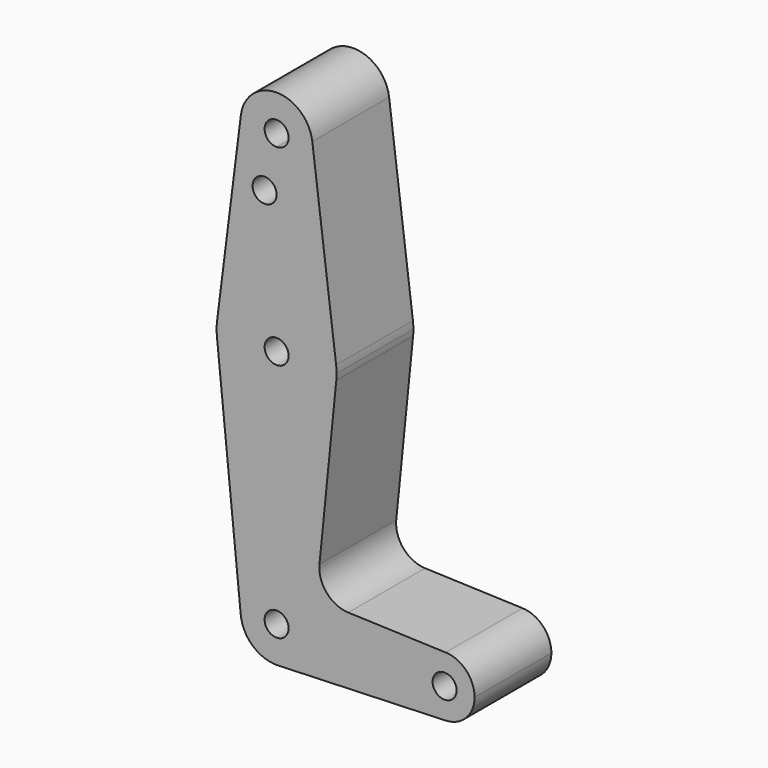
from build123d import *

# Parameters (mm, degrees)
F0_R     = 3.175
F1_DEPTH = 25.4


with BuildPart() as f1:
    # F0 (on Front) → F1 (new body)
    with BuildSketch(Plane.XZ):
        with BuildLine():
            ThreePointArc((3.175, 114.3), (-2.245064, 116.545064), (0, 111.125))
            ThreePointArc((0, 111.125), (2.245064, 112.054936), (3.175, 114.3))
        make_face()
        with BuildLine():
            ThreePointArc((0, 104.775), (6.735192, 107.564808), (9.525, 114.3))
            ThreePointArc((9.525, 114.3), (9.506305, 114.896483), (9.450293, 115.490625))
            ThreePointArc((9.450293, 115.490625), (0, 123.825), (-9.450293, 115.490625))
            ThreePointArc((-9.450293, 115.490625), (-7.14375, 107.999805), (0, 104.775))
        make_face()
        with BuildLine():
            ThreePointArc((3.175, 114.3), (2.245064, 112.054936), (0, 111.125))
            ThreePointArc((0, 111.125), (-2.245064, 116.545064), (3.175, 114.3))
        make_face(mode=Mode.SUBTRACT)
        with BuildLine():
            ThreePointArc((9.450293, 115.490625), (9.506305, 114.896483), (9.525, 114.3))
            ThreePointArc((9.525, 114.3), (6.735192, 107.564808), (0, 104.775))
            Line((0, 104.775), (0, 100.0252))
            Line((0, 100.0252), (0, 79.375))
            ThreePointArc((0, 79.375), (10.500326, 75.40625), (15.750488, 65.484375))
            Line((15.750488, 65.484375), (9.450293, 115.490625))
        make_face()
        with BuildLine():
            Line((0, 100.0252), (0, 104.775))
            ThreePointArc((0, 104.775), (-7.14375, 107.999805), (-9.450293, 115.490625))
            Line((-9.450293, 115.490625), (-15.750488, 65.484375))
            ThreePointArc((-15.750488, 65.484375), (-10.500326, 75.40625), (0, 79.375))
            Line((0, 79.375), (0, 100.0252))
        make_face()
        with Locations((-3.175, 100.0252)):
            Circle(F0_R, mode=Mode.SUBTRACT)
        with BuildLine():
            ThreePointArc((3.175, 63.5), (2.245064, 65.745064), (0, 66.675))
            ThreePointArc((0, 66.675), (-2.245064, 61.254936), (3.175, 63.5))
        make_face()
        with BuildLine():
            ThreePointArc((15.875, 63.5), (15.843841, 64.494139), (15.750488, 65.484375))
            ThreePointArc((15.750488, 65.484375), (10.500326, 75.40625), (0, 79.375))
            ThreePointArc((0, 79.375), (-10.500326, 75.40625), (-15.750488, 65.484375))
            ThreePointArc((-15.750488, 65.484375), (-15.873744, 63.699705), (-15.795426, 61.9125))
            ThreePointArc((-15.795426, 61.9125), (0, 47.625), (15.795426, 61.9125))
            ThreePointArc((15.795426, 61.9125), (15.855094, 62.705253), (15.875, 63.5))
        make_face()
        with BuildLine():
            ThreePointArc((3.175, 63.5), (-2.245064, 61.254936), (0, 66.675))
            ThreePointArc((0, 66.675), (2.245064, 65.745064), (3.175, 63.5))
        make_face(mode=Mode.SUBTRACT)
        with BuildLine():
            ThreePointArc((15.795426, 61.9125), (0, 47.625), (-15.795426, 61.9125))
            Line((-15.795426, 61.9125), (-9.477255, -0.9525))
            ThreePointArc((-9.477255, -0.9525), (-0.476848, 9.513056), (9.525, 0))
            ThreePointArc((9.525, 0), (6.854408, -6.613827), (0.340179, -9.518923))
            Line((0.340179, -9.518923), (44.733482, -7.932436))
            ThreePointArc((44.733482, -7.932436), (36.5125, 0), (44.733482, 7.932436))
            Line((44.733482, 7.932436), (18.9676, 8.853234))
            ThreePointArc((18.9676, 8.853234), (13.2612, 11.571359), (11.341187, 17.593382))
            Line((11.341187, 17.593382), (15.795426, 61.9125))
        make_face()
        with BuildLine():
            ThreePointArc((9.525, 0), (-0.476848, 9.513056), (-9.477255, -0.9525))
            ThreePointArc((-9.477255, -0.9525), (-6.262383, -7.17692), (0.340179, -9.518923))
            ThreePointArc((0.340179, -9.518923), (6.854408, -6.613827), (9.525, 0))
        make_face()
        Circle(F0_R, mode=Mode.SUBTRACT)
        with BuildLine():
            ThreePointArc((44.733482, 7.932436), (36.5125, 0), (44.733482, -7.932436))
            ThreePointArc((44.733482, -7.932436), (50.162007, -5.511523), (52.3875, 0))
            ThreePointArc((52.3875, 0), (50.162007, 5.511523), (44.733482, 7.932436))
        make_face()
        with Locations((44.45, 0)):
            Circle(F0_R, mode=Mode.SUBTRACT)
    extrude(amount=F1_DEPTH)


solid = f1.part
